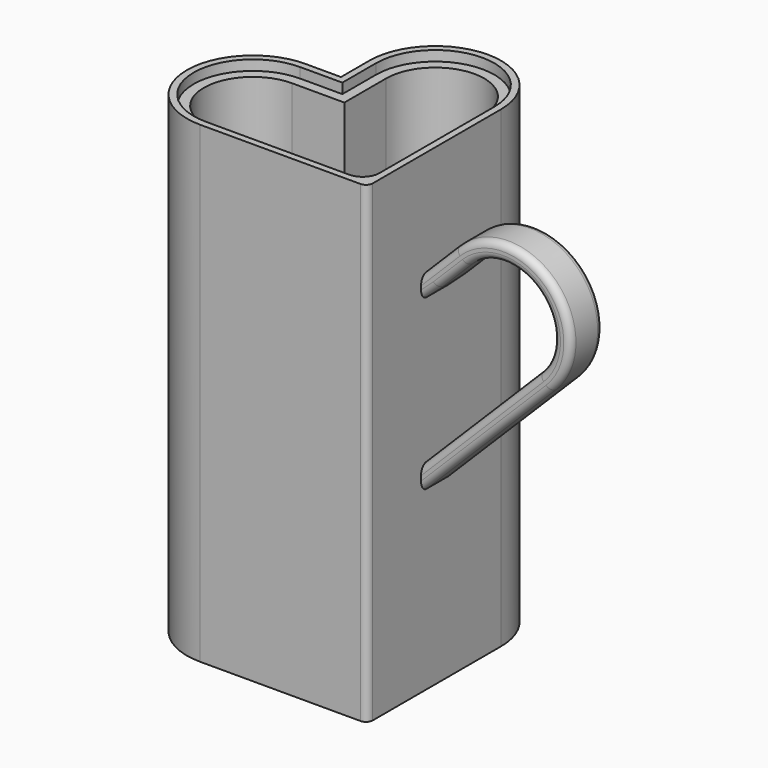
from build123d import *

# Parameters (mm, degrees)
F1_DEPTH = 140
F2_DEPTH = 137
F3_DEPTH = 5
F4_W     = 4.0531810373
F4_H     = 6.6223293543
F5_DEPTH = 5
F7_DEPTH = 12
F9_DEPTH = 31
F10_R    = 5
F11_R    = 2
F12_R    = 2
F13_R    = 5


with BuildPart() as f1:
    # F0 (on Top) → F1 (new body)
    with BuildSketch(Plane.XY):
        with BuildLine():
            Line((-37, 47.5), (-37, 37))
            Line((-37, 37), (-47.5, 37))
            ThreePointArc((-47.5, 37), (-67, 17.5), (-47.5, -2))
            Line((-47.5, -2), (2, -2))
            Line((2, -2), (2, 47.5))
            ThreePointArc((2, 47.5), (-17.5, 67), (-37, 47.5))
        make_face()
        with BuildLine():
            Line((0, 47.5), (0, 0))
            Line((0, 0), (-47.5, 0))
            ThreePointArc((-47.5, 0), (-65, 17.5), (-47.5, 35))
            Line((-47.5, 35), (-35, 35))
            Line((-35, 35), (-35, 47.5))
            ThreePointArc((-35, 47.5), (-17.5, 65), (0, 47.5))
        make_face(mode=Mode.SUBTRACT)
    extrude(amount=F1_DEPTH)

    # F0 (on Top) → F2 (join)
    with BuildSketch(Plane.XY):
        with BuildLine():
            Line((-47.5, 0), (0, 0))
            Line((0, 0), (0, 47.5))
            ThreePointArc((0, 47.5), (-17.5, 65), (-35, 47.5))
            Line((-35, 47.5), (-35, 35))
            Line((-35, 35), (-47.5, 35))
            ThreePointArc((-47.5, 35), (-65, 17.5), (-47.5, 0))
        make_face()
        with BuildLine():
            Line((-47.5, 32), (-32, 32))
            Line((-32, 32), (-32, 47.5))
            ThreePointArc((-32, 47.5), (-17.5, 62), (-3, 47.5))
            Line((-3, 47.5), (-3, 3))
            Line((-3, 3), (-47.5, 3))
            ThreePointArc((-47.5, 3), (-62, 17.5), (-47.5, 32))
        make_face(mode=Mode.SUBTRACT)
    extrude(amount=F2_DEPTH)

    # F0 (on Top) → F3 (join)
    with BuildSketch(Plane.XY):
        with BuildLine():
            Line((-32, 47.5), (-32, 32))
            Line((-32, 32), (-47.5, 32))
            ThreePointArc((-47.5, 32), (-62, 17.5), (-47.5, 3))
            Line((-47.5, 3), (-3, 3))
            Line((-3, 3), (-3, 47.5))
            ThreePointArc((-3, 47.5), (-17.5, 62), (-32, 47.5))
        make_face()
    extrude(amount=F3_DEPTH)

    # F4 (on face) → F5 (join)
    with BuildSketch(Plane.YZ.offset(2)):
        with Locations((19.9135849252, 105.5362299085)):
            Rectangle(F4_W, F4_H)
    extrude(amount=F5_DEPTH)

    # F6 (on face) → F7 (join)
    with BuildSketch(Plane.XZ.offset(-17.8869944066)):
        with BuildLine():
            Line((12.1471862551, 118.9945808407), (2, 108.8473945856))
            Line((2, 108.8473945856), (2, 102.2250652313))
            Line((2, 102.2250652313), (5.5355339059, 105.3118606797))
            Line((5.5355339059, 105.3118606797), (15.682720161, 115.4590469347))
            ThreePointArc((15.682720161, 115.4590469347), (36.8959235966, 115.4590469347), (36.8959235966, 94.2458434991))
            Line((36.8959235966, 94.2458434991), (2, 59.3499199026))
            Line((2, 59.3499199026), (2, 52.2788520907))
            Line((2, 52.2788520907), (40.4314575025, 90.7103095932))
            ThreePointArc((40.4314575025, 90.7103095932), (40.4314575025, 118.9945808407), (12.1471862551, 118.9945808407))
        make_face()
    extrude(amount=-F7_DEPTH)

    # F8 (on face) → F9 (cut)
    with BuildSketch(Plane.XZ.offset(-17.8869944066)):
        Polygon((7, 102.2250652313), (7, 106.7763267737), (2, 102.2250652313), align=None)
    extrude(amount=-F9_DEPTH, mode=Mode.SUBTRACT)

    # F10
    f10_edges = [f1.edges().sort_by_distance(p)[0] for p in [
        (-62, 17.5, 5),
        (-32, 39.75, 5),
        (-3, 3, 71),
    ]]
    fillet(f10_edges, radius=F10_R)

    # F11
    f11_edges = [f1.edges().sort_by_distance(p)[0] for p in [
        (40.431458, 17.886994, 118.994581),
        (7.073593, 17.886994, 113.920988),
        (21.215729, 17.886994, 71.494581),
        (36.895924, 17.886994, 115.459047),
        (11.34136, 17.886994, 111.117687),
        (4.5, 17.886994, 104.500696),
        (19.447962, 17.886994, 76.797882),
        (21.215729, 29.886994, 71.494581),
        (40.431458, 29.886994, 118.994581),
        (19.447962, 29.886994, 76.797882),
        (36.895924, 29.886994, 115.459047),
        (11.34136, 29.886994, 111.117687),
        (4.5, 29.886994, 104.500696),
        (7.073593, 29.886994, 113.920988),
    ]]
    fillet(f11_edges, radius=F11_R)

    # F12
    f12_edges = [f1.edges().sort_by_distance(p)[0] for p in [
        (2, -2, 70),
    ]]
    fillet(f12_edges, radius=F12_R)

    # F13
    f13_edges = [f1.edges().sort_by_distance(p)[0] for p in [
        (0, 0, 138.5),
    ]]
    fillet(f13_edges, radius=F13_R)


solid = f1.part
